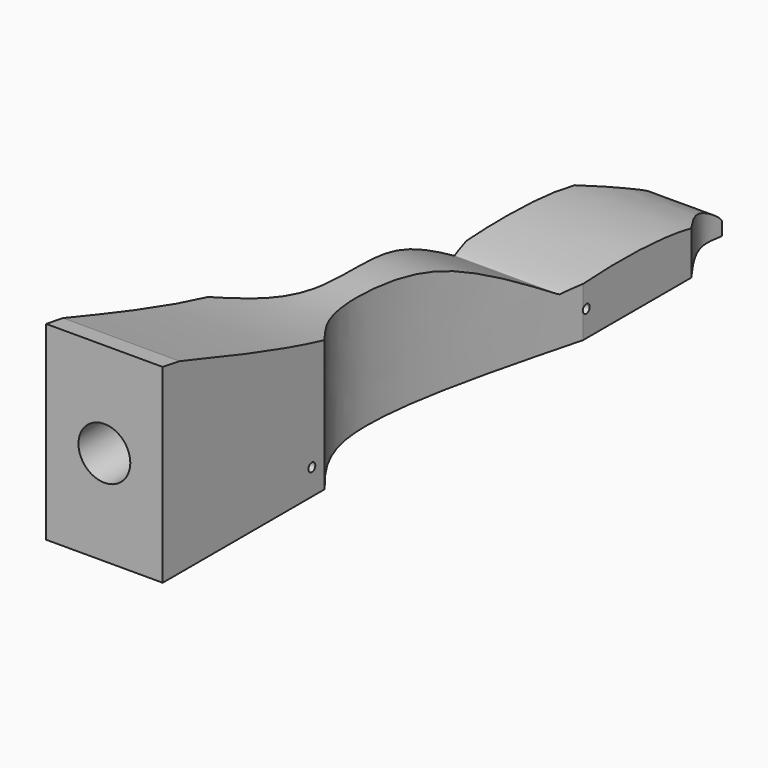
from build123d import *

# Parameters (mm, degrees)
F1_DEPTH = 21.43125
F2_R     = 9.525
F3_DEPTH = 50.8
F4_R     = 1.5875
F6_DEPTH = 42.8635
F7_DEPTH = 69.8510001


with BuildPart() as f1:
    # F0 (on Right) → F1 (new body, symmetric)
    with BuildSketch(Plane.YZ):
        Polygon((-152.4, 69.85), (-152.4, 0), (152.4, 0), (152.4, 19.05), align=None)
    extrude(amount=F1_DEPTH, both=True)

    # F2 (on face) → F3 (cut)
    with BuildSketch(Plane.XZ.offset(152.4)):
        with Locations((0, 34.925)):
            Circle(F2_R)
    extrude(amount=-F3_DEPTH, mode=Mode.SUBTRACT)

    # F4 (on face) → F6 (intersect, through all)
    with BuildSketch(Plane.YZ.offset(21.43125)):
        with BuildLine():
            add(Edge.make_bspline(
                [(-144.6128213612, 68.5521368935), (-113.0546182407, 57.9857193705), (-57.8005760697, 39.4853859648), (-11.0580791671, 46.1732190894), (32.5529757883, 16.9293632876), (33.0228995202, 17.8402760362), (83.2525833989, 21.8353688986), (118.6973227994, 7.2896332546), (116.8544767388, 1.5152398846), (116.3709014654, 0)],
                knots=[0, 0, 0, 0, 0.2426461718, 0.424839835, 0.5933198688, 0.6125498556, 0.7898414857, 0.9448529841, 1, 1, 1, 1], degree=3))
            Line((-144.6128213612, 68.5521368935), (-152.4, 69.85))
            Line((-152.4, 69.85), (-152.4, 0))
            Line((-152.4, 0), (116.3709014654, 0))
        make_face()
        with Locations((-83.8572606444, 9.525)):
            Circle(F4_R, mode=Mode.SUBTRACT)
        with Locations((42.2100536525, 9.525)):
            Circle(F4_R, mode=Mode.SUBTRACT)
    extrude(amount=-F6_DEPTH, mode=Mode.INTERSECT)

    # F5 (on face) → F7 (intersect, through all)
    with BuildSketch(Plane(origin=(0, 0, 0), x_dir=(1, 0, 0), z_dir=(0, 0, -1))):
        with BuildLine():
            Line((-21.43125, 152.4), (-21.43125, 78.0134797096))
            add(Edge.make_bspline(
                [(-21.43125, 78.0134797096), (-15.1035000858, 70.0608389568), (1.9126617327, 48.675129381), (-12.4251795023, -6.2207585574), (-21.43125, -40.7026745379)],
                knots=[0, 0, 0, 0, 0.371867051, 1, 1, 1, 1], degree=3))
            Line((-21.43125, -40.7026745379), (-21.43125, -90.4629006982))
            add(Edge.make_bspline(
                [(-12.1696637943, -116.1260902882), (-11.6125281639, -113.1547520999), (-10.2640967682, -105.9632434597), (-17.3015080294, -96.1951060984), (-21.43125, -90.4629006982)],
                knots=[0, 0, 0, 0, 0.4131731375, 1, 1, 1, 1], degree=3))
            Line((-12.1696637943, -116.1260902882), (12.1696637943, -116.1260902882))
            add(Edge.make_bspline(
                [(12.1696637943, -116.1260902882), (11.6125281639, -113.1547520999), (10.2640967682, -105.9632434597), (17.3015080294, -96.1951060984), (21.43125, -90.4629006982)],
                knots=[0, 0, 0, 0, 0.4131731375, 1, 1, 1, 1], degree=3))
            Line((21.43125, -90.4629006982), (21.43125, -40.7026745379))
            add(Edge.make_bspline(
                [(21.43125, 78.0134797096), (15.1035000858, 70.0608389568), (-1.9126617327, 48.675129381), (12.4251795023, -6.2207585574), (21.43125, -40.7026745379)],
                knots=[0, 0, 0, 0, 0.371867051, 1, 1, 1, 1], degree=3))
            Line((21.43125, 78.0134797096), (21.43125, 152.4))
            Line((21.43125, 152.4), (-21.43125, 152.4))
        make_face()
    extrude(amount=-F7_DEPTH, mode=Mode.INTERSECT)


solid = f1.part
